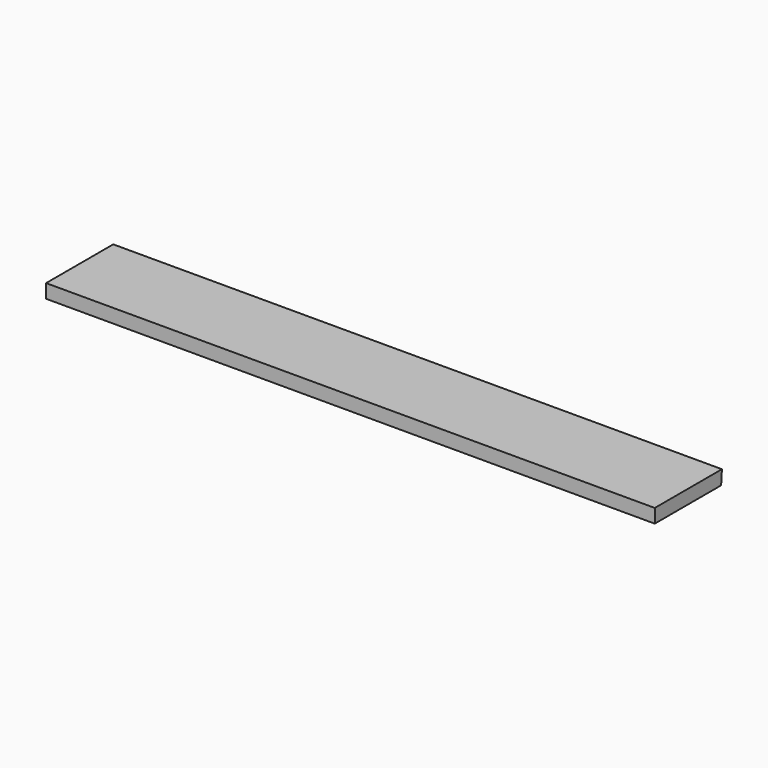
from build123d import *

# Parameters (mm, degrees)
F0_W     = 838.2
F0_H     = 115.57
F1_DEPTH = 19.05
F3_DEPTH = 838.201


with BuildPart() as f1:
    # F0 (on Top) → F1 (new body)
    with BuildSketch(Plane.XY):
        with Locations((419.1, 57.785)):
            Rectangle(F0_W, F0_H)
    extrude(amount=F1_DEPTH)

    # F2 (on face) → F3 (cut, through all)
    with BuildSketch(Plane(origin=(0, 0, 0), x_dir=(0, -1, 0), z_dir=(-1, 0, 0))):
        Polygon((-114.237894, 0), (-115.57, 19.05), (-115.57, 0), align=None)
    extrude(amount=-F3_DEPTH, mode=Mode.SUBTRACT)


solid = f1.part
